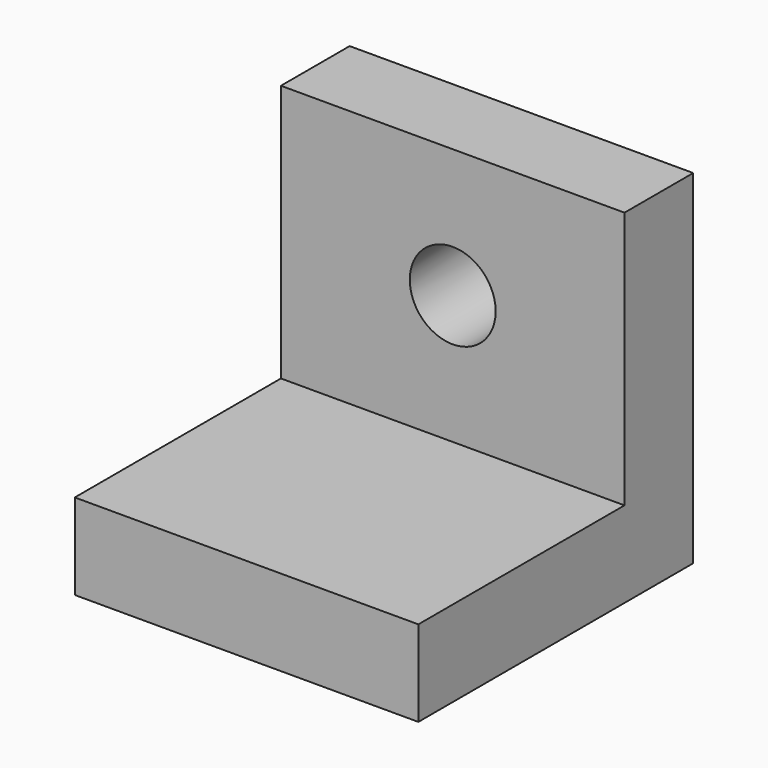
from build123d import *

# Parameters (mm, degrees)
F0_W     = 50.8
F0_H     = 50.8
F1_DEPTH = 12.7
F2_W     = 50.8
F2_H     = 12.7
F3_DEPTH = 38.1
F4_R     = 6.35
F5_DEPTH = 25.4


with BuildPart() as f1:
    # F0 (on Top) → F1 (new body)
    with BuildSketch(Plane.XY):
        with Locations((-2.055053, 4.118493)):
            Rectangle(F0_W, F0_H)
    extrude(amount=F1_DEPTH)

    # F2 (on face) → F3 (join)
    with BuildSketch(Plane.XY.offset(12.7)):
        with Locations((-2.055053, 23.168493)):
            Rectangle(F2_W, F2_H)
    extrude(amount=F3_DEPTH)

    # F4 (on face) → F5 (cut)
    with BuildSketch(Plane.XZ.offset(-16.818493)):
        with Locations((-2.055053, 31.75)):
            Circle(F4_R)
    extrude(amount=-F5_DEPTH, mode=Mode.SUBTRACT)


solid = f1.part
